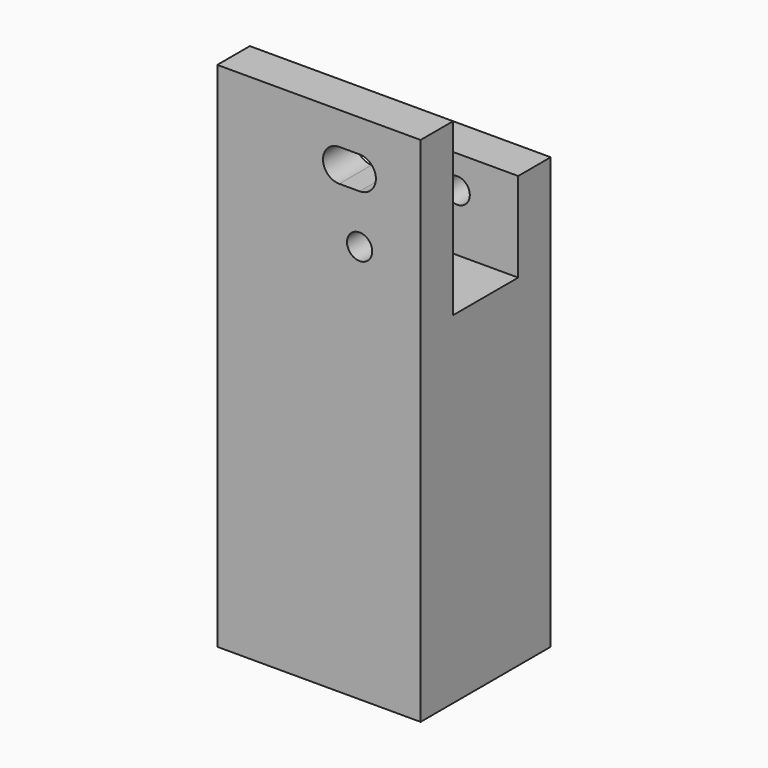
from build123d import *

# Parameters (mm, degrees)
F0_W      = 25
F0_H      = 60
F1_DEPTH  = 20
F2_W      = 10
F2_H      = 18
F3_DEPTH  = 25.001
F4_W      = 5
F4_H      = 7
F5_DEPTH  = 25.001
F7_D      = 3.1
F9_D      = 9.5
F9_DEPTH  = 35
F9_TIP    = 2.8540879404
F11_DEPTH = 20.001
F13_D     = 5
F13_DEPTH = 15
F13_TIP   = 1.5021515476
F14_DEPTH = 3
F15_W     = 10
F15_H     = 11
F16_DEPTH = 5.001


with BuildPart() as f1:
    # F0 (on Front) → F1 (new body)
    with BuildSketch(Plane.XZ):
        with Locations((12.5, -30)):
            Rectangle(F0_W, F0_H)
    extrude(amount=F1_DEPTH)

    # F2 (on face) → F3 (cut, through all)
    with BuildSketch(Plane(origin=(0, 0, 0), x_dir=(0, -1, 0), z_dir=(-1, 0, 0))):
        with Locations((10, -9)):
            Rectangle(F2_W, F2_H)
    extrude(amount=-F3_DEPTH, mode=Mode.SUBTRACT)

    # F4 (on face) → F5 (cut, through all)
    with BuildSketch(Plane(origin=(0, 0, 0), x_dir=(0, -1, 0), z_dir=(-1, 0, 0))):
        with Locations((2.5, -3.5)):
            Rectangle(F4_W, F4_H)
    extrude(amount=-F5_DEPTH, mode=Mode.SUBTRACT)

    # F7 (through all)
    with Locations(Plane(origin=(0, 0, 0), x_dir=(-1, 0, 0), z_dir=(0, 1, 0))):
        with Locations((-17.5, -11)):
            Hole(F7_D / 2)

    # F9
    with Locations(Plane.XY.offset(-18)):
        with Locations((5.5, -10)):
            Hole(F9_D / 2, depth=F9_DEPTH)
            with Locations((0, 0, -(F9_DEPTH + F9_TIP / 2))):  # 118° drill point
                Cone(0, F9_D / 2, F9_TIP, mode=Mode.SUBTRACT)

    # F10 (on face) → F11 (cut, through all)
    with BuildSketch(Plane.XZ.offset(20)):
        with BuildLine():
            Line((17.5, -1), (15, -1))
            ThreePointArc((15, -1), (13, -3), (15, -5))
            Line((15, -5), (17.5, -5))
            ThreePointArc((17.5, -5), (19.5, -3), (17.5, -1))
        make_face()
    extrude(amount=-F11_DEPTH, mode=Mode.SUBTRACT)

    # F13
    with Locations(Plane(origin=(0, 0, 0), x_dir=(-1, 0, 0), z_dir=(0, 1, 0))):
        with Locations((-17.5, -54), (-17.5, -22)):
            Hole(F13_D / 2, depth=F13_DEPTH)
            with Locations((0, 0, -(F13_DEPTH + F13_TIP / 2))):  # 118° drill point
                Cone(0, F13_D / 2, F13_TIP, mode=Mode.SUBTRACT)

    # F14 (add): a face of the model
    f14_faces = [f1.faces().sort_by_distance(p)[0] for p in [
        (12.5, -17.5, 0),
    ]]
    extrude(f14_faces, amount=F14_DEPTH)

    # F15 (on face) → F16 (cut, through all)
    with BuildSketch(Plane.XZ.offset(5)):
        with Locations((5, -12.5)):
            Rectangle(F15_W, F15_H)
    extrude(amount=-F16_DEPTH, mode=Mode.SUBTRACT)


solid = f1.part
